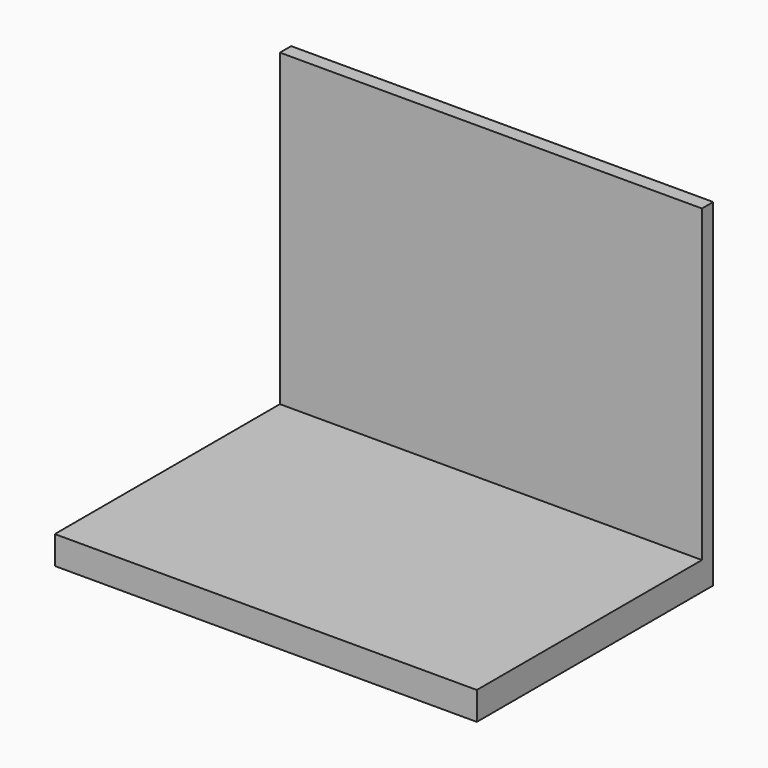
from build123d import *

# Parameters (mm, degrees)
F1_DEPTH = 25.4
F2_W     = 381
F2_H     = 12.7
F4_DEPTH = 304.8
F3_W     = 203.2
F3_H     = 76.2
F5_DEPTH = 50.8


with BuildPart() as f1:
    # F0 (on Top) → F1 (new body)
    with BuildSketch(Plane.XY):
        Polygon((-208.403401, 57.177154), (-208.403401, -196.822846), (172.596599, -196.822846), (172.596599, 57.177154), (83.696599, 57.177154), (-119.503401, 57.177154), align=None)
    extrude(amount=F1_DEPTH)

    # F2 (on Top) → F4 (join)
    with BuildSketch(Plane.XY):
        with Locations((-17.903401, 63.527154)):
            Rectangle(F2_W, F2_H)
    extrude(amount=F4_DEPTH)

    # F3 (on Top) → F5 (join)
    with BuildSketch(Plane.XY):
        with Locations((-17.903401, 107.977154)):
            Rectangle(F3_W, F3_H)
    extrude(amount=F5_DEPTH)


solid = f1.part
